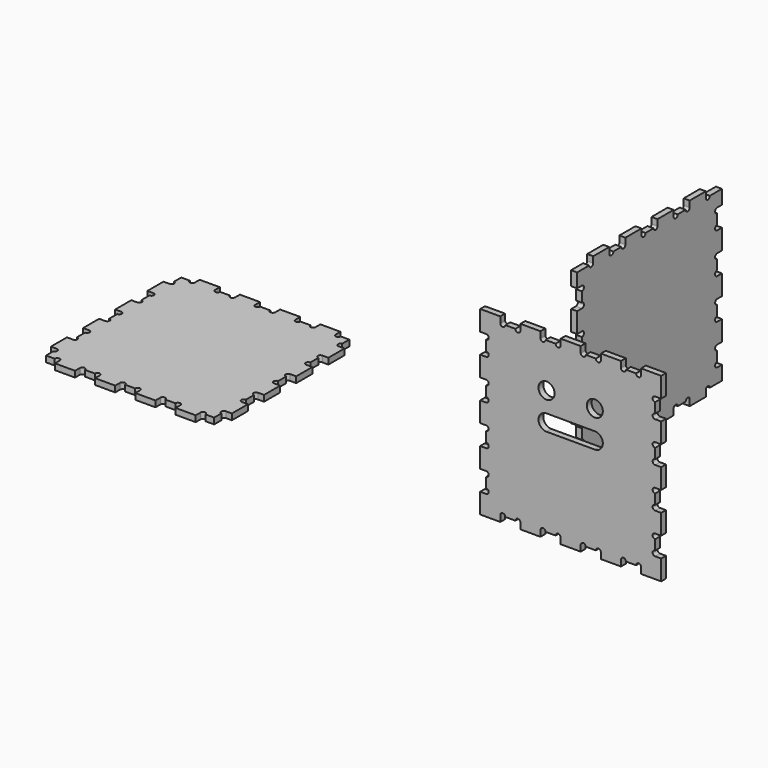
from build123d import *

# Parameters (mm, degrees)
F1_DEPTH = 3
F3_DEPTH = 3
F5_DEPTH = 3
F6_R     = 4
F7_DEPTH = 146.515286


with BuildPart() as f1:
    # F0 (on Front) → F1 (new body)
    with BuildSketch(Plane.XZ):
        with BuildLine():
            Line((10, 90), (0, 90))
            Line((0, 90), (0, 80))
            Line((0, 80), (3, 80))
            ThreePointArc((3, 80), (4.25, 78.75), (3, 77.5))
            Line((3, 77.5), (3, 72.5))
            ThreePointArc((3, 72.5), (4.25, 71.25), (3, 70))
            Line((3, 70), (0, 70))
            Line((0, 70), (0, 60))
            Line((0, 60), (3, 60))
            ThreePointArc((3, 60), (4.25, 58.75), (3, 57.5))
            Line((3, 57.5), (3, 52.5))
            ThreePointArc((3, 52.5), (4.25, 51.25), (3, 50))
            Line((3, 50), (0, 50))
            Line((0, 50), (0, 40))
            Line((0, 40), (3, 40))
            ThreePointArc((3, 40), (4.25, 38.75), (3, 37.5))
            Line((3, 37.5), (3, 32.5))
            ThreePointArc((3, 32.5), (4.25, 31.25), (3, 30))
            Line((3, 30), (0, 30))
            Line((0, 30), (0, 20))
            Line((0, 20), (3, 20))
            ThreePointArc((3, 20), (4.25, 18.75), (3, 17.5))
            Line((3, 17.5), (3, 12.5))
            ThreePointArc((3, 12.5), (4.25, 11.25), (3, 10))
            Line((3, 10), (0, 10))
            Line((0, 10), (0, 0))
            Line((0, 0), (10, 0))
            Line((10, 0), (10, 3))
            ThreePointArc((10, 3), (11.25, 4.25), (12.5, 3))
            Line((12.5, 3), (17.5, 3))
            ThreePointArc((17.5, 3), (18.75, 4.25), (20, 3))
            Line((20, 3), (20, 0))
            Line((20, 0), (30, 0))
            Line((30, 0), (30, 3))
            ThreePointArc((30, 3), (31.25, 4.25), (32.5, 3))
            Line((32.5, 3), (37.5, 3))
            ThreePointArc((37.5, 3), (38.75, 4.25), (40, 3))
            Line((40, 3), (40, 0))
            Line((40, 0), (50, 0))
            Line((50, 0), (50, 3))
            ThreePointArc((50, 3), (51.25, 4.25), (52.5, 3))
            Line((52.5, 3), (57.5, 3))
            ThreePointArc((57.5, 3), (58.75, 4.25), (60, 3))
            Line((60, 3), (60, 0))
            Line((60, 0), (70, 0))
            Line((70, 0), (70, 3))
            ThreePointArc((70, 3), (71.25, 4.25), (72.5, 3))
            Line((72.5, 3), (77.5, 3))
            ThreePointArc((77.5, 3), (78.75, 4.25), (80, 3))
            Line((80, 3), (80, 0))
            Line((80, 0), (90, 0))
            Line((90, 0), (90, 10))
            Line((90, 10), (87, 10))
            ThreePointArc((87, 10), (85.75, 11.25), (87, 12.5))
            Line((87, 12.5), (87, 17.5))
            ThreePointArc((87, 17.5), (85.75, 18.75), (87, 20))
            Line((87, 20), (90, 20))
            Line((90, 20), (90, 30))
            Line((90, 30), (87, 30))
            ThreePointArc((87, 30), (85.75, 31.25), (87, 32.5))
            Line((87, 32.5), (87, 37.5))
            ThreePointArc((87, 37.5), (85.75, 38.75), (87, 40))
            Line((87, 40), (90, 40))
            Line((90, 40), (90, 50))
            Line((90, 50), (87, 50))
            ThreePointArc((87, 50), (85.75, 51.25), (87, 52.5))
            Line((87, 52.5), (87, 57.5))
            ThreePointArc((87, 57.5), (85.75, 58.75), (87, 60))
            Line((87, 60), (90, 60))
            Line((90, 60), (90, 70))
            Line((90, 70), (87, 70))
            ThreePointArc((87, 70), (85.75, 71.25), (87, 72.5))
            Line((87, 72.5), (87, 77.5))
            ThreePointArc((87, 77.5), (85.75, 78.75), (87, 80))
            Line((87, 80), (90, 80))
            Line((90, 80), (90, 90))
            Line((90, 90), (80, 90))
            Line((80, 90), (80, 87))
            ThreePointArc((80, 87), (78.75, 85.75), (77.5, 87))
            Line((77.5, 87), (72.5, 87))
            ThreePointArc((72.5, 87), (71.25, 85.75), (70, 87))
            Line((70, 87), (70, 90))
            Line((70, 90), (60, 90))
            Line((60, 90), (60, 87))
            ThreePointArc((60, 87), (58.75, 85.75), (57.5, 87))
            Line((57.5, 87), (52.5, 87))
            ThreePointArc((52.5, 87), (51.25, 85.75), (50, 87))
            Line((50, 87), (50, 90))
            Line((50, 90), (40, 90))
            Line((40, 90), (40, 87))
            ThreePointArc((40, 87), (38.75, 85.75), (37.5, 87))
            Line((37.5, 87), (32.5, 87))
            ThreePointArc((32.5, 87), (31.25, 85.75), (30, 87))
            Line((30, 87), (30, 90))
            Line((30, 90), (20, 90))
            Line((20, 90), (20, 87))
            ThreePointArc((20, 87), (18.75, 85.75), (17.5, 87))
            Line((17.5, 87), (12.5, 87))
            ThreePointArc((12.5, 87), (11.25, 85.75), (10, 87))
            Line((10, 87), (10, 90))
        make_face()
    extrude(amount=F1_DEPTH)

    # F6 (on face) → F7 (cut, through all)
    with BuildSketch(Plane.XZ.offset(3)):
        with Locations((33, 65)):
            Circle(F6_R)
        with Locations((57, 65)):
            Circle(F6_R)
        with BuildLine():
            Line((57, 55), (33, 55))
            ThreePointArc((33, 55), (29, 51), (33, 47))
            Line((33, 47), (57, 47))
            ThreePointArc((57, 47), (61, 51), (57, 55))
        make_face()
    extrude(amount=-F7_DEPTH, mode=Mode.SUBTRACT)


with BuildPart() as f3:
    # F2 (on Right) → F3 (new body)
    with BuildSketch(Plane.YZ):
        with BuildLine():
            Line((53.514286, 7.000267), (53.514286, 0))
            Line((53.514286, 0), (61.014286, 0))
            ThreePointArc((61.014286, 0), (62.264286, 1.25), (63.514286, 0))
            Line((63.514286, 0), (63.514286, -2.999733))
            Line((63.514286, -2.999733), (73.514286, -2.999733))
            Line((73.514286, -2.999733), (73.514286, 0))
            ThreePointArc((73.514286, 0), (74.764286, 1.25), (76.014286, 0))
            Line((76.014286, 0), (81.014286, 0))
            ThreePointArc((81.014286, 0), (82.264286, 1.25), (83.514286, 0))
            Line((83.514286, 0), (83.514286, -2.999733))
            Line((83.514286, -2.999733), (93.514286, -2.999733))
            Line((93.514286, -2.999733), (93.514286, 0))
            ThreePointArc((93.514286, 0), (94.764286, 1.25), (96.014286, 0))
            Line((96.014286, 0), (98.514286, 0))
            Line((98.514286, 0), (101.014286, 0))
            ThreePointArc((101.014286, 0), (102.264286, 1.25), (103.514286, 0))
            Line((103.514286, 0), (103.514286, -2.999733))
            Line((103.514286, -2.999733), (113.514286, -2.999733))
            Line((113.514286, -2.999733), (113.514286, 0))
            ThreePointArc((113.514286, 0), (114.764286, 1.25), (116.014286, 0))
            Line((116.014286, 0), (121.014286, 0))
            ThreePointArc((121.014286, 0), (122.264286, 1.25), (123.514286, 0))
            Line((123.514286, 0), (123.514286, -2.999733))
            Line((123.514286, -2.999733), (133.514286, -2.999733))
            Line((133.514286, -2.999733), (133.514286, 0))
            ThreePointArc((133.514286, 0), (134.764286, 1.25), (136.014286, 0))
            Line((136.014286, 0), (143.514286, 0))
            Line((143.514286, 0), (143.514286, 7.000267))
            Line((143.514286, 7.000267), (140.514286, 7.000267))
            ThreePointArc((140.514286, 7.000267), (139.264286, 8.250267), (140.514286, 9.500267))
            Line((140.514286, 9.500267), (140.514286, 14.500267))
            ThreePointArc((140.514286, 14.500267), (139.264286, 15.750267), (140.514286, 17.000267))
            Line((140.514286, 17.000267), (143.514286, 17.000267))
            Line((143.514286, 17.000267), (143.514286, 27.000267))
            Line((143.514286, 27.000267), (140.514286, 27.000267))
            ThreePointArc((140.514286, 27.000267), (139.264286, 28.250267), (140.514286, 29.500267))
            Line((140.514286, 29.500267), (140.514286, 34.500267))
            ThreePointArc((140.514286, 34.500267), (139.264286, 35.750267), (140.514286, 37.000267))
            Line((140.514286, 37.000267), (143.514286, 37.000267))
            Line((143.514286, 37.000267), (143.514286, 42.000267))
            Line((143.514286, 42.000267), (143.514286, 47.000267))
            Line((143.514286, 47.000267), (140.514286, 47.000267))
            ThreePointArc((140.514286, 47.000267), (139.264286, 48.250267), (140.514286, 49.500267))
            Line((140.514286, 49.500267), (140.514286, 54.500267))
            ThreePointArc((140.514286, 54.500267), (139.264286, 55.750267), (140.514286, 57.000267))
            Line((140.514286, 57.000267), (143.514286, 57.000267))
            Line((143.514286, 57.000267), (143.514286, 67.000267))
            Line((143.514286, 67.000267), (140.514286, 67.000267))
            ThreePointArc((140.514286, 67.000267), (139.264286, 68.250267), (140.514286, 69.500267))
            Line((140.514286, 69.500267), (140.514286, 74.500267))
            ThreePointArc((140.514286, 74.500267), (139.264286, 75.750267), (140.514286, 77.000267))
            Line((140.514286, 77.000267), (143.514286, 77.000267))
            Line((143.514286, 77.000267), (143.514286, 84.000535))
            Line((143.514286, 84.000535), (136.014286, 84.000535))
            ThreePointArc((136.014286, 84.000535), (134.764286, 82.750535), (133.514286, 84.000535))
            Line((133.514286, 84.000535), (133.514286, 87.000267))
            Line((133.514286, 87.000267), (123.514286, 87.000267))
            Line((123.514286, 87.000267), (123.514286, 84.000535))
            ThreePointArc((123.514286, 84.000535), (122.264286, 82.750535), (121.014286, 84.000535))
            Line((121.014286, 84.000535), (116.014286, 84.000535))
            ThreePointArc((116.014286, 84.000535), (114.764286, 82.750535), (113.514286, 84.000535))
            Line((113.514286, 84.000535), (113.514286, 87.000267))
            Line((113.514286, 87.000267), (103.514286, 87.000267))
            Line((103.514286, 87.000267), (103.514286, 84.000535))
            ThreePointArc((103.514286, 84.000535), (102.264286, 82.750535), (101.014286, 84.000535))
            Line((101.014286, 84.000535), (98.514286, 84.000535))
            Line((98.514286, 84.000535), (96.014286, 84.000535))
            ThreePointArc((96.014286, 84.000535), (94.764286, 82.750535), (93.514286, 84.000535))
            Line((93.514286, 84.000535), (93.514286, 87.000267))
            Line((93.514286, 87.000267), (83.514286, 87.000267))
            Line((83.514286, 87.000267), (83.514286, 84.000535))
            ThreePointArc((83.514286, 84.000535), (82.264286, 82.750535), (81.014286, 84.000535))
            Line((81.014286, 84.000535), (76.014286, 84.000535))
            ThreePointArc((76.014286, 84.000535), (74.764286, 82.750535), (73.514286, 84.000535))
            Line((73.514286, 84.000535), (73.514286, 87.000267))
            Line((73.514286, 87.000267), (63.514286, 87.000267))
            Line((63.514286, 87.000267), (63.514286, 84.000535))
            ThreePointArc((63.514286, 84.000535), (62.264286, 82.750535), (61.014286, 84.000535))
            Line((61.014286, 84.000535), (53.514286, 84.000535))
            Line((53.514286, 84.000535), (53.514286, 77.000267))
            Line((53.514286, 77.000267), (56.514286, 77.000267))
            ThreePointArc((56.514286, 77.000267), (57.764286, 75.750267), (56.514286, 74.500267))
            Line((56.514286, 74.500267), (56.514286, 69.500267))
            ThreePointArc((56.514286, 69.500267), (57.764286, 68.250267), (56.514286, 67.000267))
            Line((56.514286, 67.000267), (53.514286, 67.000267))
            Line((53.514286, 67.000267), (53.514286, 57.000267))
            Line((53.514286, 57.000267), (56.514286, 57.000267))
            ThreePointArc((56.514286, 57.000267), (57.764286, 55.750267), (56.514286, 54.500267))
            Line((56.514286, 54.500267), (56.514286, 49.500267))
            ThreePointArc((56.514286, 49.500267), (57.764286, 48.250267), (56.514286, 47.000267))
            Line((56.514286, 47.000267), (53.514286, 47.000267))
            Line((53.514286, 47.000267), (53.514286, 42.000267))
            Line((53.514286, 42.000267), (53.514286, 37.000267))
            Line((53.514286, 37.000267), (56.514286, 37.000267))
            ThreePointArc((56.514286, 37.000267), (57.764286, 35.750267), (56.514286, 34.500267))
            Line((56.514286, 34.500267), (56.514286, 29.500267))
            ThreePointArc((56.514286, 29.500267), (57.764286, 28.250267), (56.514286, 27.000267))
            Line((56.514286, 27.000267), (53.514286, 27.000267))
            Line((53.514286, 27.000267), (53.514286, 17.000267))
            Line((53.514286, 17.000267), (56.514286, 17.000267))
            ThreePointArc((56.514286, 17.000267), (57.764286, 15.750267), (56.514286, 14.500267))
            Line((56.514286, 14.500267), (56.514286, 9.500267))
            ThreePointArc((56.514286, 9.500267), (57.764286, 8.250267), (56.514286, 7.000267))
            Line((56.514286, 7.000267), (53.514286, 7.000267))
        make_face()
    extrude(amount=F3_DEPTH)


with BuildPart() as f5:
    # F4 (on Top) → F5 (new body)
    with BuildSketch(Plane.XY):
        with BuildLine():
            Line((-211.57207, -3.848584), (-211.57207, -8.366462))
            Line((-211.57207, -8.366462), (-207.282728, -8.366462))
            ThreePointArc((-207.282728, -8.366462), (-206.032728, -7.116462), (-204.782728, -8.366462))
            Line((-204.782728, -8.366462), (-204.782728, -11.366462))
            Line((-204.782728, -11.366462), (-194.782728, -11.366462))
            Line((-194.782728, -11.366462), (-194.782728, -8.366462))
            ThreePointArc((-194.782728, -8.366462), (-193.532728, -7.116462), (-192.282728, -8.366462))
            Line((-192.282728, -8.366462), (-187.282728, -8.366462))
            ThreePointArc((-187.282728, -8.366462), (-186.032728, -7.116462), (-184.782728, -8.366462))
            Line((-184.782728, -8.366462), (-184.782728, -11.366462))
            Line((-184.782728, -11.366462), (-174.782728, -11.366462))
            Line((-174.782728, -11.366462), (-174.782728, -8.366462))
            ThreePointArc((-174.782728, -8.366462), (-173.532728, -7.116462), (-172.282728, -8.366462))
            Line((-172.282728, -8.366462), (-169.782728, -8.366462))
            Line((-169.782728, -8.366462), (-167.282728, -8.366462))
            ThreePointArc((-167.282728, -8.366462), (-166.032728, -7.116462), (-164.782728, -8.366462))
            Line((-164.782728, -8.366462), (-164.782728, -11.366462))
            Line((-164.782728, -11.366462), (-154.782728, -11.366462))
            Line((-154.782728, -11.366462), (-154.782728, -8.366462))
            ThreePointArc((-154.782728, -8.366462), (-153.532728, -7.116462), (-152.282728, -8.366462))
            Line((-152.282728, -8.366462), (-147.282728, -8.366462))
            ThreePointArc((-147.282728, -8.366462), (-146.032728, -7.116462), (-144.782728, -8.366462))
            Line((-144.782728, -8.366462), (-144.782728, -11.366462))
            Line((-144.782728, -11.366462), (-134.782728, -11.366462))
            Line((-134.782728, -11.366462), (-134.782728, -8.366462))
            ThreePointArc((-134.782728, -8.366462), (-133.532728, -7.116462), (-132.282728, -8.366462))
            Line((-132.282728, -8.366462), (-127.993386, -8.366462))
            Line((-127.993386, -8.366462), (-127.993386, -3.848584))
            ThreePointArc((-127.993386, -3.848584), (-129.02825, -2.510755), (-127.782728, -1.366462))
            Line((-127.782728, -1.366462), (-124.782728, -1.366462))
            Line((-124.782728, -1.366462), (-124.782728, 8.633538))
            Line((-124.782728, 8.633538), (-127.782728, 8.633538))
            ThreePointArc((-127.782728, 8.633538), (-129.032728, 9.883538), (-127.782728, 11.133538))
            Line((-127.782728, 11.133538), (-127.782728, 16.133538))
            ThreePointArc((-127.782728, 16.133538), (-129.032728, 17.383538), (-127.782728, 18.633538))
            Line((-127.782728, 18.633538), (-124.782728, 18.633538))
            Line((-124.782728, 18.633538), (-124.782728, 28.633538))
            Line((-124.782728, 28.633538), (-127.782728, 28.633538))
            ThreePointArc((-127.782728, 28.633538), (-129.032728, 29.883538), (-127.782728, 31.133538))
            Line((-127.782728, 31.133538), (-127.782728, 33.633538))
            Line((-127.782728, 33.633538), (-127.782728, 36.133538))
            ThreePointArc((-127.782728, 36.133538), (-129.032728, 37.383538), (-127.782728, 38.633538))
            Line((-127.782728, 38.633538), (-124.782728, 38.633538))
            Line((-124.782728, 38.633538), (-124.782728, 48.633538))
            Line((-124.782728, 48.633538), (-127.782728, 48.633538))
            ThreePointArc((-127.782728, 48.633538), (-129.032728, 49.883538), (-127.782728, 51.133538))
            Line((-127.782728, 51.133538), (-127.782728, 56.133538))
            ThreePointArc((-127.782728, 56.133538), (-129.032728, 57.383538), (-127.782728, 58.633538))
            Line((-127.782728, 58.633538), (-124.782728, 58.633538))
            Line((-124.782728, 58.633538), (-124.782728, 68.633538))
            Line((-124.782728, 68.633538), (-127.782728, 68.633538))
            ThreePointArc((-127.782728, 68.633538), (-129.02825, 69.77783), (-127.993386, 71.115659))
            Line((-127.993386, 71.115659), (-127.993386, 75.633538))
            Line((-127.993386, 75.633538), (-132.282728, 75.633538))
            ThreePointArc((-132.282728, 75.633538), (-133.532728, 74.383538), (-134.782728, 75.633538))
            Line((-134.782728, 75.633538), (-134.782728, 78.633538))
            Line((-134.782728, 78.633538), (-144.782728, 78.633538))
            Line((-144.782728, 78.633538), (-144.782728, 75.633538))
            ThreePointArc((-144.782728, 75.633538), (-146.032728, 74.383538), (-147.282728, 75.633538))
            Line((-147.282728, 75.633538), (-152.282728, 75.633538))
            ThreePointArc((-152.282728, 75.633538), (-153.532728, 74.383538), (-154.782728, 75.633538))
            Line((-154.782728, 75.633538), (-154.782728, 78.633538))
            Line((-154.782728, 78.633538), (-164.782728, 78.633538))
            Line((-164.782728, 78.633538), (-164.782728, 75.633538))
            ThreePointArc((-164.782728, 75.633538), (-166.032728, 74.383538), (-167.282728, 75.633538))
            Line((-167.282728, 75.633538), (-169.782728, 75.633538))
            Line((-169.782728, 75.633538), (-172.282728, 75.633538))
            ThreePointArc((-172.282728, 75.633538), (-173.532728, 74.383538), (-174.782728, 75.633538))
            Line((-174.782728, 75.633538), (-174.782728, 78.633538))
            Line((-174.782728, 78.633538), (-184.782728, 78.633538))
            Line((-184.782728, 78.633538), (-184.782728, 75.633538))
            ThreePointArc((-184.782728, 75.633538), (-186.032728, 74.383538), (-187.282728, 75.633538))
            Line((-187.282728, 75.633538), (-192.282728, 75.633538))
            ThreePointArc((-192.282728, 75.633538), (-193.532728, 74.383538), (-194.782728, 75.633538))
            Line((-194.782728, 75.633538), (-194.782728, 78.633538))
            Line((-194.782728, 78.633538), (-204.782728, 78.633538))
            Line((-204.782728, 78.633538), (-204.782728, 75.633538))
            ThreePointArc((-204.782728, 75.633538), (-206.032728, 74.383538), (-207.282728, 75.633538))
            Line((-207.282728, 75.633538), (-211.57207, 75.633538))
            Line((-211.57207, 75.633538), (-211.57207, 71.115659))
            ThreePointArc((-211.57207, 71.115659), (-210.537206, 69.77783), (-211.782728, 68.633538))
            Line((-211.782728, 68.633538), (-214.782728, 68.633538))
            Line((-214.782728, 68.633538), (-214.782728, 58.633538))
            Line((-214.782728, 58.633538), (-211.782728, 58.633538))
            ThreePointArc((-211.782728, 58.633538), (-210.532728, 57.383538), (-211.782728, 56.133538))
            Line((-211.782728, 56.133538), (-211.782728, 51.133538))
            ThreePointArc((-211.782728, 51.133538), (-210.532728, 49.883538), (-211.782728, 48.633538))
            Line((-211.782728, 48.633538), (-214.782728, 48.633538))
            Line((-214.782728, 48.633538), (-214.782728, 38.633538))
            Line((-214.782728, 38.633538), (-211.782728, 38.633538))
            ThreePointArc((-211.782728, 38.633538), (-210.532728, 37.383538), (-211.782728, 36.133538))
            Line((-211.782728, 36.133538), (-211.782728, 33.633538))
            Line((-211.782728, 33.633538), (-211.782728, 31.133538))
            ThreePointArc((-211.782728, 31.133538), (-210.532728, 29.883538), (-211.782728, 28.633538))
            Line((-211.782728, 28.633538), (-214.782728, 28.633538))
            Line((-214.782728, 28.633538), (-214.782728, 18.633538))
            Line((-214.782728, 18.633538), (-211.782728, 18.633538))
            ThreePointArc((-211.782728, 18.633538), (-210.532728, 17.383538), (-211.782728, 16.133538))
            Line((-211.782728, 16.133538), (-211.782728, 11.133538))
            ThreePointArc((-211.782728, 11.133538), (-210.532728, 9.883538), (-211.782728, 8.633538))
            Line((-211.782728, 8.633538), (-214.782728, 8.633538))
            Line((-214.782728, 8.633538), (-214.782728, -1.366462))
            Line((-214.782728, -1.366462), (-211.782728, -1.366462))
            ThreePointArc((-211.782728, -1.366462), (-210.537206, -2.510755), (-211.57207, -3.848584))
        make_face()
    extrude(amount=F5_DEPTH)


solid = Compound([f1.part, f3.part, f5.part])
